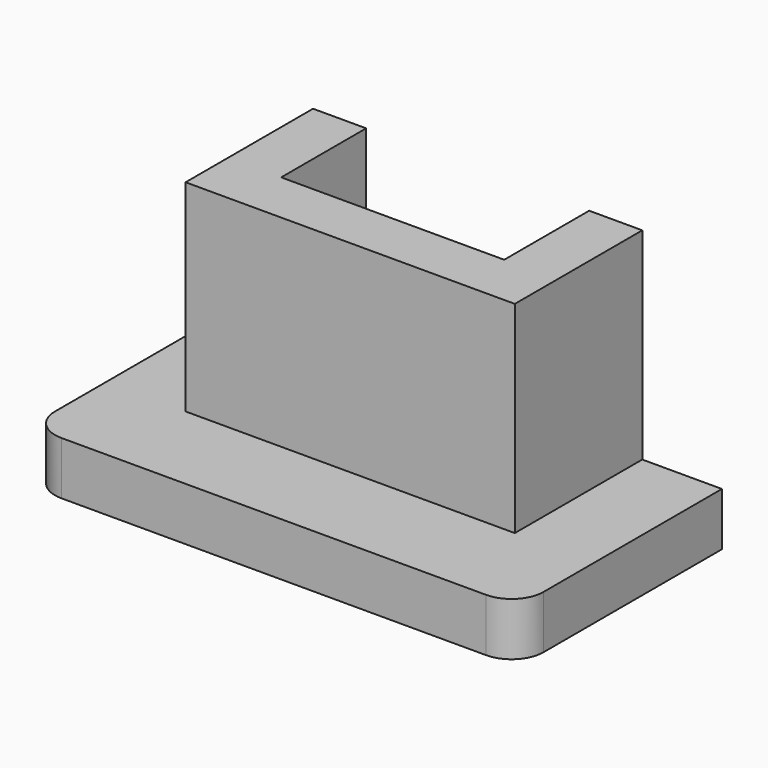
from build123d import *

# Parameters (mm, degrees)
F1_DEPTH = 48
F0_W     = 15
F0_H     = 30
F2_DEPTH = 10
F3_R     = 6


with BuildPart() as f1:
    # F0 (on Top) → F1 (new body)
    with BuildSketch(Plane.XY):
        Polygon((21, 30), (21, 10), (-21, 10), (-21, 30), (-31, 30), (-31, 0), (31, 0), (31, 30), align=None)
    extrude(amount=F1_DEPTH)

    # F0 (on Top) → F2 (join)
    with BuildSketch(Plane.XY):
        Polygon((46, 0), (31, 0), (-31, 0), (-46, 0), (-46, -18), (46, -18), align=None)
        with Locations((38.5, 15)):
            Rectangle(F0_W, F0_H)
        with Locations((-38.5, 15)):
            Rectangle(F0_W, F0_H)
    extrude(amount=F2_DEPTH)

    # F3
    f3_edges = [f1.edges().sort_by_distance(p)[0] for p in [
        (46, -18, 5),
        (-46, -18, 5),
    ]]
    fillet(f3_edges, radius=F3_R)


solid = f1.part
